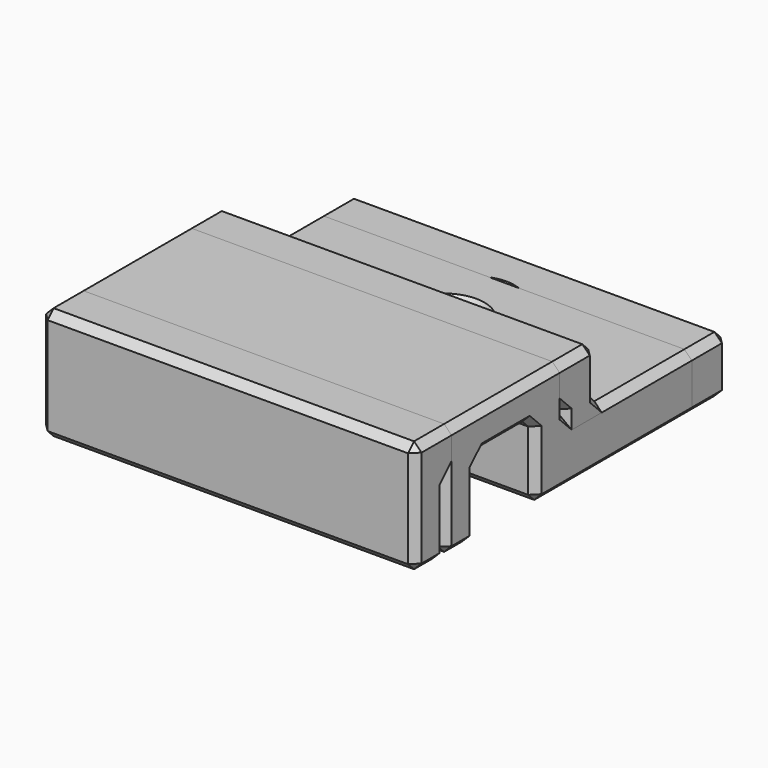
from build123d import *

# Parameters (mm, degrees)
SKETCH_W        = 20
SKETCH_H        = 20.8
PAD_DEPTH       = 6
SKETCH001_W     = 8
SKETCH001_H     = 4
POCKET_DEPTH    = 20
SKETCH002_W     = 20
SKETCH002_H     = 8.8
POCKET001_DEPTH = 3
SKETCH003_R     = 1.75
POCKET002_DEPTH = 3
CHAMFER_SIZE    = 0.4
SKETCH004_W     = 20
SKETCH004_H     = 16.8
PAD001_DEPTH    = 6
SKETCH005_W     = 4
SKETCH005_H     = 4
POCKET003_DEPTH = 20
SKETCH006_W     = 20
SKETCH006_H     = 8.8
POCKET004_DEPTH = 3
SKETCH007_R     = 1.75
POCKET005_DEPTH = 3
CHAMFER001_SIZE = 0.4


with BuildPart() as obj1:
    # Sketch → Pad (new body)
    with BuildSketch(Plane.XY):
        Rectangle(SKETCH_W, SKETCH_H)
    extrude(amount=PAD_DEPTH)

    # Sketch001 (on Face2 of Pad) → Pocket (cut)
    with BuildSketch(Plane.YZ.offset(10)):
        with Locations((-4.4, 2)):
            Rectangle(SKETCH001_W, SKETCH001_H)
    extrude(amount=-POCKET_DEPTH, mode=Mode.SUBTRACT)

    # Sketch002 (on Face5 of Pocket) → Pocket001 (cut)
    with BuildSketch(Plane.XY.offset(6)):
        with Locations((0, 6)):
            Rectangle(SKETCH002_W, SKETCH002_H)
    extrude(amount=-POCKET001_DEPTH, mode=Mode.SUBTRACT)

    # Sketch003 (on Face4 of Pocket001) → Pocket002 (cut)
    with BuildSketch(Plane.XY.offset(3)):
        with Locations((0, 6)):
            Circle(SKETCH003_R)
    extrude(amount=-POCKET002_DEPTH, mode=Mode.SUBTRACT)

    # Chamfer
    chamfer_edges = [obj1.edges().sort_by_distance(p)[0] for p in [
        (0, 1.6, 6),
        (10, -4.4, 6),
        (0, -10.4, 6),
        (-10, -4.4, 6),
        (0, 10.4, 3),
        (-10, 6, 3),
        (10, 6, 3),
        (0, 1.6, 3),
        (-1.75, 6, 3),
        (10, 5, 0),
        (10, -0.4, 2),
        (10, -4.4, 4),
        (10, -8.4, 2),
        (10, -9.4, 0),
        (10, -10.4, 3),
        (10, 1.6, 4.5),
        (10, 10.4, 1.5),
        (-10, -9.4, 0),
        (-10, -8.4, 2),
        (-10, -4.4, 4),
        (-10, -0.4, 2),
        (-10, 5, 0),
        (-10, 10.4, 1.5),
        (-10, 1.6, 4.5),
        (-10, -10.4, 3),
        (0, -10.4, 0),
        (0, 10.4, 0),
        (0, -0.4, 0),
        (-1.75, 6, 0),
        (0, -8.4, 0),
        (0, -0.4, 4),
        (0, -8.4, 4),
    ]]
    chamfer(chamfer_edges, length=CHAMFER_SIZE)


with BuildPart() as f_4_18gauge_wires:
    # Sketch004 → Pad001 (new body)
    with BuildSketch(Plane.XY):
        Rectangle(SKETCH004_W, SKETCH004_H)
    extrude(amount=PAD001_DEPTH)

    # Sketch005 (on Face2 of Pad001) → Pocket003 (cut)
    with BuildSketch(Plane.YZ.offset(10)):
        with Locations((-4.4, 2)):
            Rectangle(SKETCH005_W, SKETCH005_H)
    extrude(amount=-POCKET003_DEPTH, mode=Mode.SUBTRACT)

    # Sketch006 (on Face5 of Pocket003) → Pocket004 (cut)
    with BuildSketch(Plane.XY.offset(6)):
        with Locations((0, 4)):
            Rectangle(SKETCH006_W, SKETCH006_H)
    extrude(amount=-POCKET004_DEPTH, mode=Mode.SUBTRACT)

    # Sketch007 (on Face4 of Pocket004) → Pocket005 (cut)
    with BuildSketch(Plane.XY.offset(3)):
        with Locations((0, 4)):
            Circle(SKETCH007_R)
    extrude(amount=-POCKET005_DEPTH, mode=Mode.SUBTRACT)

    # Chamfer001
    chamfer001_edges = [f_4_18gauge_wires.edges().sort_by_distance(p)[0] for p in [
        (0, -0.4, 6),
        (10, -4.4, 6),
        (0, -8.4, 6),
        (-10, -4.4, 6),
        (0, 8.4, 3),
        (-10, 4, 3),
        (10, 4, 3),
        (0, -0.4, 3),
        (-1.75, 4, 3),
        (10, 3, 0),
        (10, -2.4, 2),
        (10, -4.4, 4),
        (10, -6.4, 2),
        (10, -7.4, 0),
        (10, -8.4, 3),
        (10, -0.4, 4.5),
        (10, 8.4, 1.5),
        (-10, -7.4, 0),
        (-10, -6.4, 2),
        (-10, -4.4, 4),
        (-10, -2.4, 2),
        (-10, 3, 0),
        (-10, 8.4, 1.5),
        (-10, -0.4, 4.5),
        (-10, -8.4, 3),
        (0, -8.4, 0),
        (0, 8.4, 0),
        (0, -2.4, 0),
        (-1.75, 4, 0),
        (0, -6.4, 0),
        (0, -2.4, 4),
        (0, -6.4, 4),
    ]]
    chamfer(chamfer001_edges, length=CHAMFER001_SIZE)


solid = Compound([obj1.part, f_4_18gauge_wires.part])
